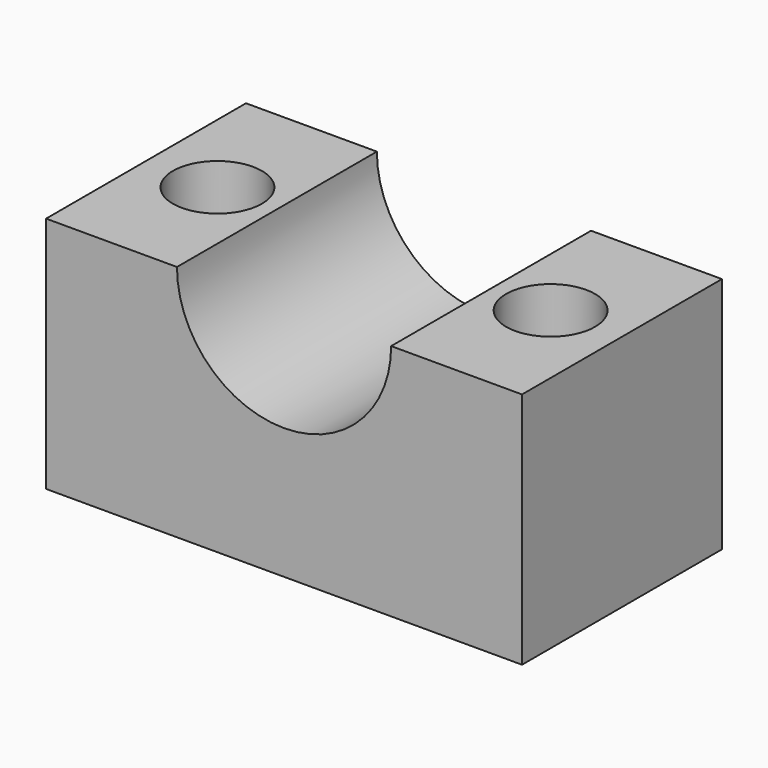
from build123d import *

# Parameters (mm, degrees)
F0_W     = 254
F0_H     = 133.35
F0_R     = 23.749
F1_DEPTH = 127
F3_DEPTH = 133.351


with BuildPart() as f1:
    # F0 (on Top) → F1 (new body)
    with BuildSketch(Plane.XY):
        Rectangle(F0_W, F0_H)
        with Locations((-88.9, 0)):
            Circle(F0_R, mode=Mode.SUBTRACT)
        with Locations((88.9, 0)):
            Circle(F0_R, mode=Mode.SUBTRACT)
    extrude(amount=F1_DEPTH)

    # F2 (on face) → F3 (cut, through all)
    with BuildSketch(Plane.XZ.offset(66.675)):
        with BuildLine():
            ThreePointArc((-57.15, 127), (0, 69.85), (57.15, 127))
            Line((57.15, 127), (-57.15, 127))
        make_face()
        with BuildLine():
            Line((-57.15, 127), (57.15, 127))
            ThreePointArc((57.15, 127), (0, 184.15), (-57.15, 127))
        make_face()
    extrude(amount=-F3_DEPTH, mode=Mode.SUBTRACT)


solid = f1.part
